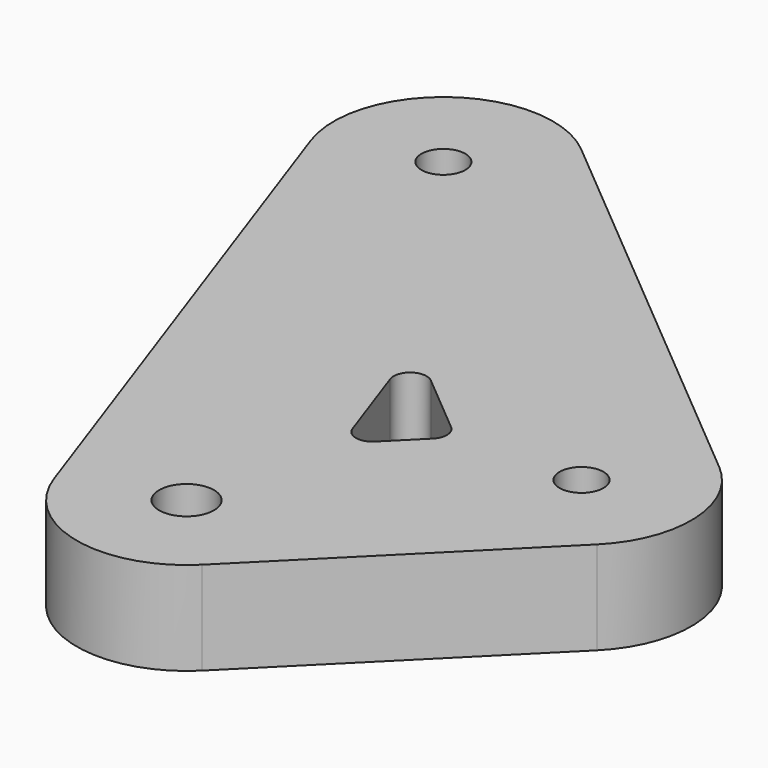
from build123d import *

# Parameters (mm, degrees)
F0_R     = 5
F0_R_2   = 4
F1_DEPTH = 8.5


with BuildPart() as f1:
    # F0 (on Top) → F1 (new body, symmetric)
    with BuildSketch(Plane.XY):
        with BuildLine():
            ThreePointArc((-23.748692, 79.59965), (-47.98176, 80.727368), (-55.475573, 57.654524))
            Line((-55.475573, 57.654524), (-18.871129, -46.624236))
            ThreePointArc((-18.871129, -46.624236), (-4.440782, -59.500755), (14.142136, -54.142136))
            Line((14.142136, -54.142136), (54.142136, -14.142136))
            ThreePointArc((54.142136, -14.142136), (59.980964, 0.872388), (52.855752, 15.320889))
            Line((52.855752, 15.320889), (-23.748692, 79.59965))
        make_face()
        with Locations((0, -40)):
            Circle(F0_R, mode=Mode.SUBTRACT)
        with BuildLine():
            Line((4.057651, 10.578103), (15.310351, 1.135966))
            ThreePointArc((15.310351, 1.135966), (16.379133, -1.031309), (15.503309, -3.283488))
            Line((15.503309, -3.283488), (9.627566, -9.159231))
            ThreePointArc((9.627566, -9.159231), (6.840128, -9.963024), (4.675576, -8.031546))
            Line((4.675576, -8.031546), (-0.701381, 7.286334))
            ThreePointArc((-0.701381, 7.286334), (0.422691, 10.74726), (4.057651, 10.578103))
        make_face(mode=Mode.SUBTRACT)
        with Locations((40, 0)):
            Circle(F0_R_2, mode=Mode.SUBTRACT)
        with Locations((-36.604444, 64.278761)):
            Circle(F0_R_2, mode=Mode.SUBTRACT)
    extrude(amount=F1_DEPTH, both=True)


solid = f1.part
